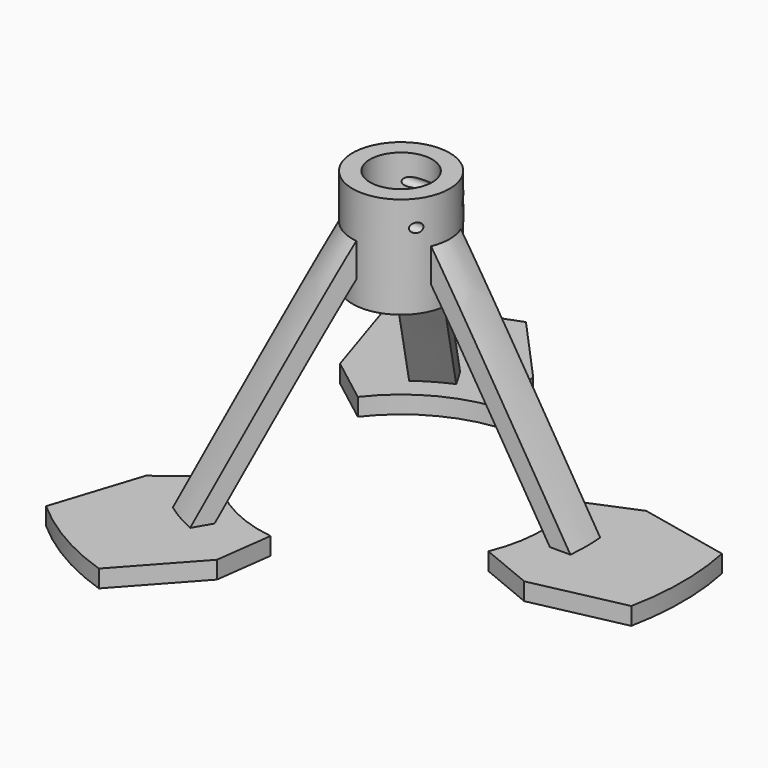
from build123d import *

# Parameters (mm, degrees)
F3_ANGLE_BACK  = 22.5
F3_ANGLE       = 45
F5_START       = 4.7625
F5_DEPTH       = 73.661
F7_DEPTH       = 78.4235
F8_COUNT       = 3
F9_R           = 1.27
F10_DEPTH      = 50.8733057387
F10_DEPTH_BACK = 76.59454776


with BuildPart() as f1:
    # F0 (on Front) → F1 (revolve)
    with BuildSketch(Plane.XZ):
        Polygon((13.2207, 50.8), (13.2207, 78.4225), (8.4582, 78.4225), (8.4582, 55.5625), (4.191, 55.5625), (4.191, 50.8), align=None)
    revolve(axis=Axis((0, 0, 76.2090291828), (0, 0, 1)))

    # F2 (on Front) → F3 (revolve)
    with BuildSketch(Plane.XZ, mode=Mode.PRIVATE) as f3_sk:
        Polygon((50.40645224, 4.7625), (13.2207, 66.3656993785), (13.2207, 57.15), (44.84354776, 4.7625), (38.49354776, 4.7625), (38.49354776, 0), (76.59354776, 0), (76.59354776, 4.7625), align=None)
    revolve(f3_sk.sketch.rotate(Axis((0, 0, 76.2090291828), (0, 0, 1)), -F3_ANGLE_BACK), axis=Axis((0, 0, 76.2090291828), (0, 0, 1)), revolution_arc=F3_ANGLE)

    # F4 (on Top) → F5 (cut)
    with BuildSketch(Plane.XY.offset(F5_START)):
        Polygon((12.2143341355, 33.2312490207), (12.2143341355, 5.0593428543), (63.5, 5.0593428543), (63.5, -5.0593428543), (12.2143341355, -5.0593428543), (12.2143341355, -33.2312490207), (78.2526575172, -33.2312490207), (78.2526575172, 33.2312490207), align=None)
    extrude(amount=F5_DEPTH, mode=Mode.SUBTRACT)

    # F6 (on Top) → F7 (cut, through all)
    with BuildSketch(Plane.XY):
        Polygon((50.1519040247, 31.7581439537), (50.1519040247, 20.7735988259), (87.7114310861, 12.7), (87.7114310861, -12.7), (50.1519040247, -20.7735988259), (50.1519040247, -36.5923251011), (108.705951746, -36.5923251011), (108.705951746, 31.7581439537), align=None)
    extrude(amount=F7_DEPTH, mode=Mode.SUBTRACT)

    # F8: F1 ×3 about axis
    f8_axis = Axis((0, 0, 76.2090291828), (0, 0, 1))


with BuildPart() as f1_1:
    add(f1.part)
    for i in range(1, F8_COUNT):
        add(f1.part.rotate(f8_axis, i * 360 / F8_COUNT))

    # F9 (on Right) → F10 (cut, two sides)
    with BuildSketch(Plane.YZ) as f10_sk:
        with Locations((-7.9375, 71.4375)):
            Circle(F9_R)
        with Locations((7.9375, 71.4375)):
            Circle(F9_R)
    extrude(amount=-F10_DEPTH, mode=Mode.SUBTRACT)
    extrude(f10_sk.sketch, amount=F10_DEPTH_BACK, mode=Mode.SUBTRACT)


solid = f1_1.part
